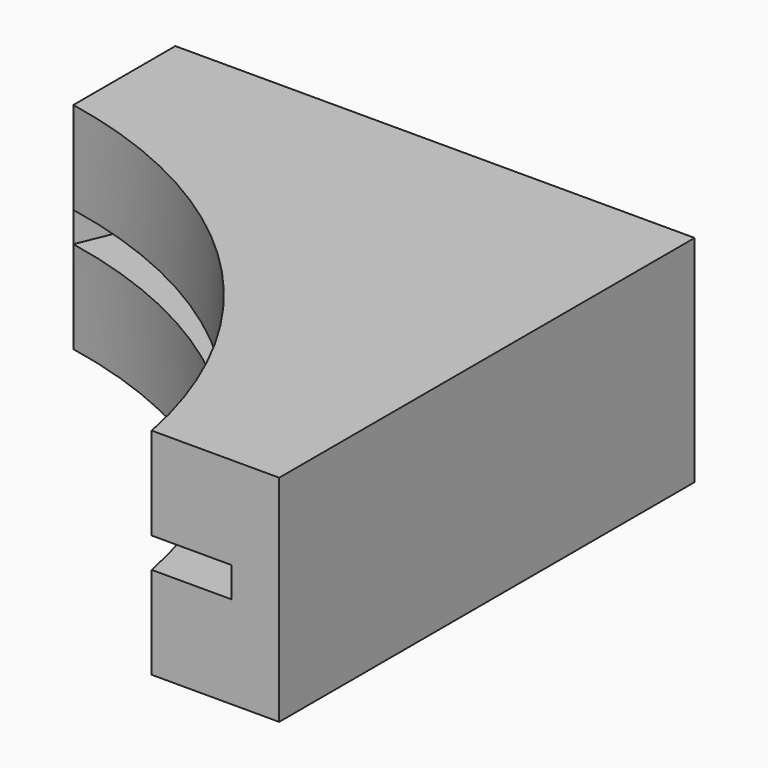
from build123d import *

# Parameters (mm, degrees)
F1_DEPTH = 13.462
F2_W     = 4.9854009032
F2_H     = 1.8919831465


with BuildPart() as f1:
    # F0 (on Top) → F1 (new body)
    with BuildSketch(Plane.XY):
        with BuildLine():
            Line((0, 0), (-32.5159132481, 0))
            Line((-32.5159132481, 0), (-32.5159132481, -7.981837922))
            ThreePointArc((-32.5159132481, -7.981837922), (-16.5119812517, -16.5119812517), (-7.981837922, -32.5159132481))
            Line((-7.981837922, -32.5159132481), (0, -32.5159132481))
            Line((0, -32.5159132481), (0, 0))
        make_face()
    extrude(amount=F1_DEPTH)

    # F3: sweep along a path in F3_path
    with BuildLine(Plane(origin=(-32.5159132481, -7.981837922, 13.462), x_dir=(0, 1, 0), z_dir=(0, 0, 1))) as f3_path:
        ThreePointArc((0, 0), (-8.5301433298, -16.0039319963), (-24.5340753261, -24.5340753261))
    # F2 (on face) → F3 (sweep, cut)
    with BuildSketch(Plane.XZ.offset(32.5159132481)):
        with Locations((-5.4891374703, 6.731)):
            Rectangle(F2_W, F2_H)
    sweep(path=f3_path.line, mode=Mode.SUBTRACT)


solid = f1.part
